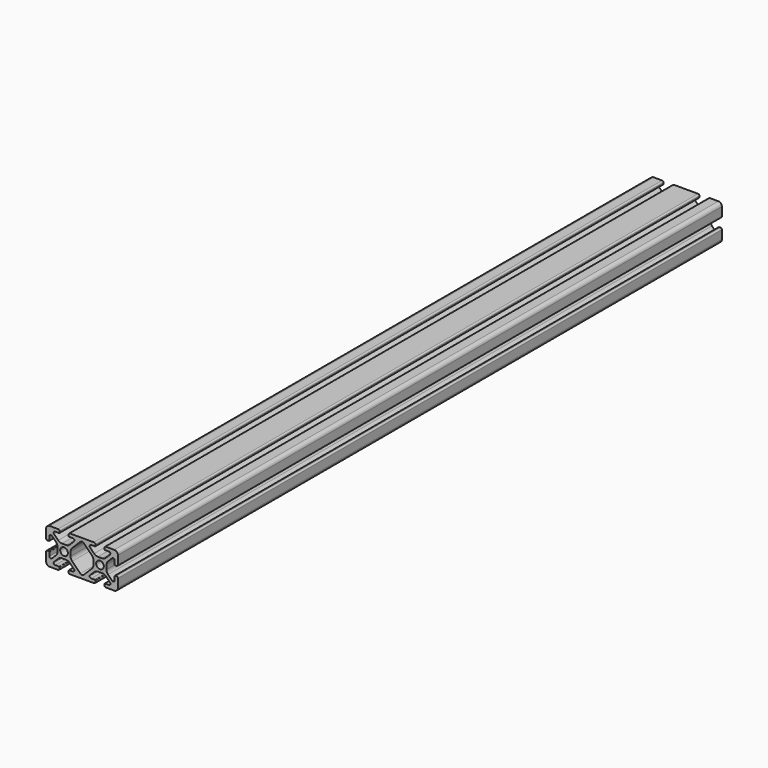
from build123d import *

# Parameters (mm, degrees)
F0_R     = 2.1463
F1_DEPTH = 420


with BuildPart() as f1:
    # F0 (on Front) → F1 (new body)
    with BuildSketch(Plane.XZ):
        with BuildLine():
            Line((-9.75241, 4.759444), (-12.019248, 4.759444))
            ThreePointArc((-12.019248, 4.759444), (-13.166227, 4.987592), (-14.138589, 5.637303))
            Line((-14.138589, 5.637303), (-16.393426, 7.892141))
            ThreePointArc((-16.393426, 7.892141), (-16.575125, 8.805603), (-15.800729, 9.323038))
            Line((-15.800729, 9.323038), (-13.692529, 9.323038))
            ThreePointArc((-13.692529, 9.323038), (-13.477003, 9.412312), (-13.387729, 9.627838))
            Line((-13.387729, 9.627838), (-13.387729, 10.339038))
            ThreePointArc((-13.387729, 10.339038), (-13.618353, 10.895814), (-14.175129, 11.126438))
            Line((-14.175129, 11.126438), (-18.874129, 11.126438))
            ThreePointArc((-18.874129, 11.126438), (-20.29301, 10.538718), (-20.880729, 9.119838))
            Line((-20.880729, 9.119838), (-20.880729, 4.420838))
            ThreePointArc((-20.880729, 4.420838), (-20.650105, 3.864062), (-20.093329, 3.633438))
            Line((-20.093329, 3.633438), (-19.382129, 3.633438))
            ThreePointArc((-19.382129, 3.633438), (-19.166603, 3.722712), (-19.077329, 3.938238))
            Line((-19.077329, 3.938238), (-19.077329, 6.046438))
            ThreePointArc((-19.077329, 6.046438), (-18.559895, 6.820834), (-17.646432, 6.639135))
            Line((-17.646432, 6.639135), (-15.391595, 4.384297))
            ThreePointArc((-15.391595, 4.384297), (-14.741884, 3.411936), (-14.513736, 2.264957))
            Line((-14.513736, 2.264957), (-14.513736, -0.001881))
            ThreePointArc((-14.513736, -0.001881), (-14.741884, -1.14886), (-15.391595, -2.121222))
            Line((-15.391595, -2.121222), (-17.646432, -4.376059))
            ThreePointArc((-17.646432, -4.376059), (-18.559895, -4.557758), (-19.077329, -3.783362))
            Line((-19.077329, -3.783362), (-19.077329, -1.675162))
            ThreePointArc((-19.077329, -1.675162), (-19.166603, -1.459636), (-19.382129, -1.370362))
            Line((-19.382129, -1.370362), (-20.093329, -1.370362))
            ThreePointArc((-20.093329, -1.370362), (-20.650105, -1.600986), (-20.880729, -2.157762))
            Line((-20.880729, -2.157762), (-20.880729, -6.856762))
            ThreePointArc((-20.880729, -6.856762), (-20.29301, -8.275643), (-18.874129, -8.863362))
            Line((-18.874129, -8.863362), (-14.175129, -8.863362))
            ThreePointArc((-14.175129, -8.863362), (-13.618353, -8.632738), (-13.387729, -8.075962))
            Line((-13.387729, -8.075962), (-13.387729, -7.364762))
            ThreePointArc((-13.387729, -7.364762), (-13.477003, -7.149236), (-13.692529, -7.059962))
            Line((-13.692529, -7.059962), (-15.800729, -7.059962))
            ThreePointArc((-15.800729, -7.059962), (-16.575125, -6.542528), (-16.393426, -5.629065))
            Line((-16.393426, -5.629065), (-14.138589, -3.374228))
            ThreePointArc((-14.138589, -3.374228), (-13.166227, -2.724517), (-12.019248, -2.496368))
            Line((-12.019248, -2.496368), (-9.75241, -2.496368))
            ThreePointArc((-9.75241, -2.496368), (-8.605431, -2.724517), (-7.63307, -3.374228))
            Line((-7.63307, -3.374228), (-5.378232, -5.629065))
            ThreePointArc((-5.378232, -5.629065), (-5.196534, -6.542528), (-5.970929, -7.059962))
            Line((-5.970929, -7.059962), (-8.079129, -7.059962))
            ThreePointArc((-8.079129, -7.059962), (-8.294656, -7.149236), (-8.383929, -7.364762))
            Line((-8.383929, -7.364762), (-8.383929, -8.075962))
            ThreePointArc((-8.383929, -8.075962), (-8.153305, -8.632738), (-7.596529, -8.863362))
            Line((-7.596529, -8.863362), (5.814671, -8.863362))
            ThreePointArc((5.814671, -8.863362), (6.371447, -8.632738), (6.602071, -8.075962))
            Line((6.602071, -8.075962), (6.602071, -7.364762))
            ThreePointArc((6.602071, -7.364762), (6.512797, -7.149236), (6.297271, -7.059962))
            Line((6.297271, -7.059962), (4.189071, -7.059962))
            ThreePointArc((4.189071, -7.059962), (3.414675, -6.542528), (3.596374, -5.629065))
            Line((3.596374, -5.629065), (5.851211, -3.374228))
            ThreePointArc((5.851211, -3.374228), (6.823573, -2.724517), (7.970552, -2.496368))
            Line((7.970552, -2.496368), (10.23739, -2.496368))
            ThreePointArc((10.23739, -2.496368), (11.384369, -2.724517), (12.35673, -3.374228))
            Line((12.35673, -3.374228), (14.611568, -5.629065))
            ThreePointArc((14.611568, -5.629065), (14.793266, -6.542528), (14.018871, -7.059962))
            Line((14.018871, -7.059962), (11.910671, -7.059962))
            ThreePointArc((11.910671, -7.059962), (11.695144, -7.149236), (11.605871, -7.364762))
            Line((11.605871, -7.364762), (11.605871, -8.075962))
            ThreePointArc((11.605871, -8.075962), (11.836495, -8.632738), (12.393271, -8.863362))
            Line((12.393271, -8.863362), (17.092271, -8.863362))
            ThreePointArc((17.092271, -8.863362), (18.511151, -8.275643), (19.098871, -6.856762))
            Line((19.098871, -6.856762), (19.098871, -2.157762))
            ThreePointArc((19.098871, -2.157762), (18.868247, -1.600986), (18.311471, -1.370362))
            Line((18.311471, -1.370362), (17.600271, -1.370362))
            ThreePointArc((17.600271, -1.370362), (17.384744, -1.459636), (17.295471, -1.675162))
            Line((17.295471, -1.675162), (17.295471, -3.783362))
            ThreePointArc((17.295471, -3.783362), (16.778036, -4.557758), (15.864574, -4.376059))
            Line((15.864574, -4.376059), (13.609736, -2.121222))
            ThreePointArc((13.609736, -2.121222), (12.960025, -1.14886), (12.731877, -0.001881))
            Line((12.731877, -0.001881), (12.731877, 2.264957))
            ThreePointArc((12.731877, 2.264957), (12.960025, 3.411936), (13.609736, 4.384297))
            Line((13.609736, 4.384297), (15.864574, 6.639135))
            ThreePointArc((15.864574, 6.639135), (16.778036, 6.820834), (17.295471, 6.046438))
            Line((17.295471, 6.046438), (17.295471, 3.938238))
            ThreePointArc((17.295471, 3.938238), (17.384744, 3.722712), (17.600271, 3.633438))
            Line((17.600271, 3.633438), (18.311471, 3.633438))
            ThreePointArc((18.311471, 3.633438), (18.868247, 3.864062), (19.098871, 4.420838))
            Line((19.098871, 4.420838), (19.098871, 9.119838))
            ThreePointArc((19.098871, 9.119838), (18.511151, 10.538718), (17.092271, 11.126438))
            Line((17.092271, 11.126438), (12.393271, 11.126438))
            ThreePointArc((12.393271, 11.126438), (11.836495, 10.895814), (11.605871, 10.339038))
            Line((11.605871, 10.339038), (11.605871, 9.627838))
            ThreePointArc((11.605871, 9.627838), (11.695144, 9.412312), (11.910671, 9.323038))
            Line((11.910671, 9.323038), (14.018871, 9.323038))
            ThreePointArc((14.018871, 9.323038), (14.793266, 8.805603), (14.611568, 7.892141))
            Line((14.611568, 7.892141), (12.35673, 5.637303))
            ThreePointArc((12.35673, 5.637303), (11.384369, 4.987592), (10.23739, 4.759444))
            Line((10.23739, 4.759444), (7.970552, 4.759444))
            ThreePointArc((7.970552, 4.759444), (6.823573, 4.987592), (5.851211, 5.637303))
            Line((5.851211, 5.637303), (3.596374, 7.892141))
            ThreePointArc((3.596374, 7.892141), (3.414675, 8.805603), (4.189071, 9.323038))
            Line((4.189071, 9.323038), (6.297271, 9.323038))
            ThreePointArc((6.297271, 9.323038), (6.512797, 9.412312), (6.602071, 9.627838))
            Line((6.602071, 9.627838), (6.602071, 10.339038))
            ThreePointArc((6.602071, 10.339038), (6.371447, 10.895814), (5.814671, 11.126438))
            Line((5.814671, 11.126438), (-7.596529, 11.126438))
            ThreePointArc((-7.596529, 11.126438), (-8.153305, 10.895814), (-8.383929, 10.339038))
            Line((-8.383929, 10.339038), (-8.383929, 9.627838))
            ThreePointArc((-8.383929, 9.627838), (-8.294656, 9.412312), (-8.079129, 9.323038))
            Line((-8.079129, 9.323038), (-5.970929, 9.323038))
            ThreePointArc((-5.970929, 9.323038), (-5.196534, 8.805603), (-5.378232, 7.892141))
            Line((-5.378232, 7.892141), (-7.63307, 5.637303))
            ThreePointArc((-7.63307, 5.637303), (-8.605431, 4.987592), (-9.75241, 4.759444))
        make_face()
        with Locations((-10.885829, 1.131538)):
            Circle(F0_R, mode=Mode.SUBTRACT)
        with BuildLine():
            Line((-7.257923, -0.001881), (-7.257923, 2.264957))
            ThreePointArc((-7.257923, 2.264957), (-7.029775, 3.411936), (-6.380064, 4.384297))
            Line((-6.380064, 4.384297), (-1.83051, 8.933851))
            ThreePointArc((-1.83051, 8.933851), (-0.890929, 9.323038), (0.048652, 8.933851))
            Line((0.048652, 8.933851), (4.598205, 4.384297))
            ThreePointArc((4.598205, 4.384297), (5.247916, 3.411936), (5.476064, 2.264957))
            Line((5.476064, 2.264957), (5.476064, -0.001881))
            ThreePointArc((5.476064, -0.001881), (5.247916, -1.14886), (4.598205, -2.121222))
            Line((4.598205, -2.121222), (0.048652, -6.670775))
            ThreePointArc((0.048652, -6.670775), (-0.890929, -7.059962), (-1.83051, -6.670775))
            Line((-1.83051, -6.670775), (-6.380064, -2.121222))
            ThreePointArc((-6.380064, -2.121222), (-7.029775, -1.14886), (-7.257923, -0.001881))
        make_face(mode=Mode.SUBTRACT)
        with Locations((9.103971, 1.131538)):
            Circle(F0_R, mode=Mode.SUBTRACT)
    extrude(amount=F1_DEPTH)


solid = f1.part
